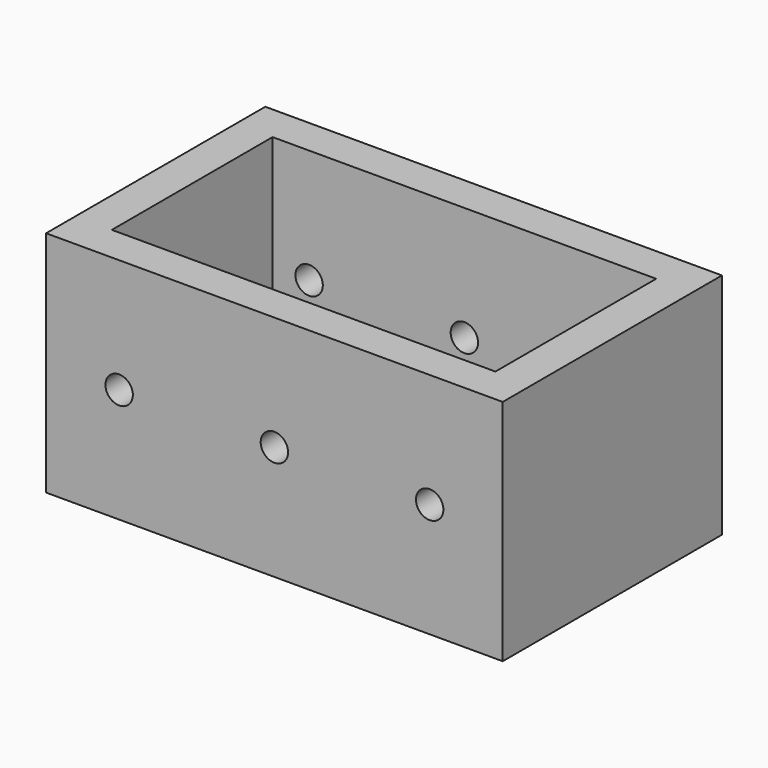
from build123d import *

# Parameters (mm, degrees)
F0_W     = 50
F0_H     = 30
F0_W_2   = 42
F0_H_2   = 22
F1_DEPTH = 25
F2_R     = 1.5
F3_DEPTH = 35


with BuildPart() as f1:
    # F0 (on Top) → F1 (new body)
    with BuildSketch(Plane.XY):
        with Locations((25, -15)):
            Rectangle(F0_W, F0_H)
        with Locations((25, -15)):
            Rectangle(F0_W_2, F0_H_2, mode=Mode.SUBTRACT)
    extrude(amount=F1_DEPTH)

    # F2 (on face) → F3 (cut)
    with BuildSketch(Plane.XZ.offset(30)):
        with Locations((25, 12.5)):
            Circle(F2_R)
        with Locations((8, 12.5)):
            Circle(F2_R)
        with Locations((42, 12.5)):
            Circle(F2_R)
    extrude(amount=-F3_DEPTH, mode=Mode.SUBTRACT)


solid = f1.part
